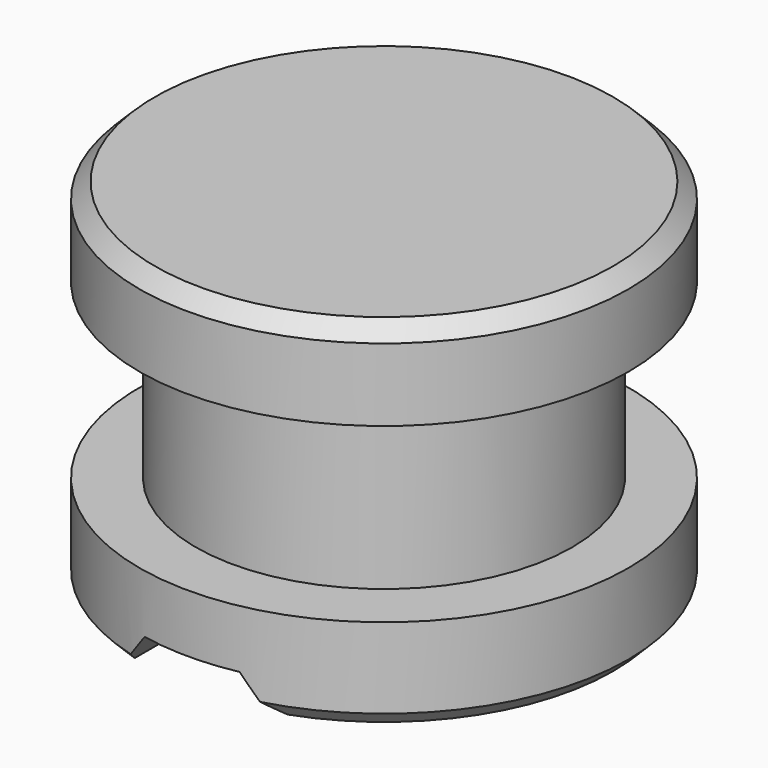
from build123d import *

# Parameters (mm, degrees)
F3_DEPTH      = 2.401
F3_DEPTH_BACK = 2.401


with BuildPart() as f1:
    # F0 (on Front) → F1 (revolve)
    with BuildSketch(Plane.XZ):
        Polygon((0, 3.5), (0, 0), (2.25, 0), (2.4, 0.15), (2.4, 0.940119), (1.847903, 0.940119), (1.847903, 2.636239), (2.4, 2.636239), (2.4, 3.35), (2.25, 3.5), align=None)
    revolve(axis=Axis((0, 0, 1.75), (0, 0, 1)))

    # F2 (on Front) → F3 (cut, two sides)
    with BuildSketch(Plane.XZ) as f3_sk:
        Polygon((-0.466795, 0.370299), (-0.75, 0), (0, 0), (0.75, 0), (0.466795, 0.370299), (0, 0.370299), align=None)
    extrude(amount=F3_DEPTH, mode=Mode.SUBTRACT)
    extrude(f3_sk.sketch, amount=-F3_DEPTH_BACK, mode=Mode.SUBTRACT)


solid = f1.part
